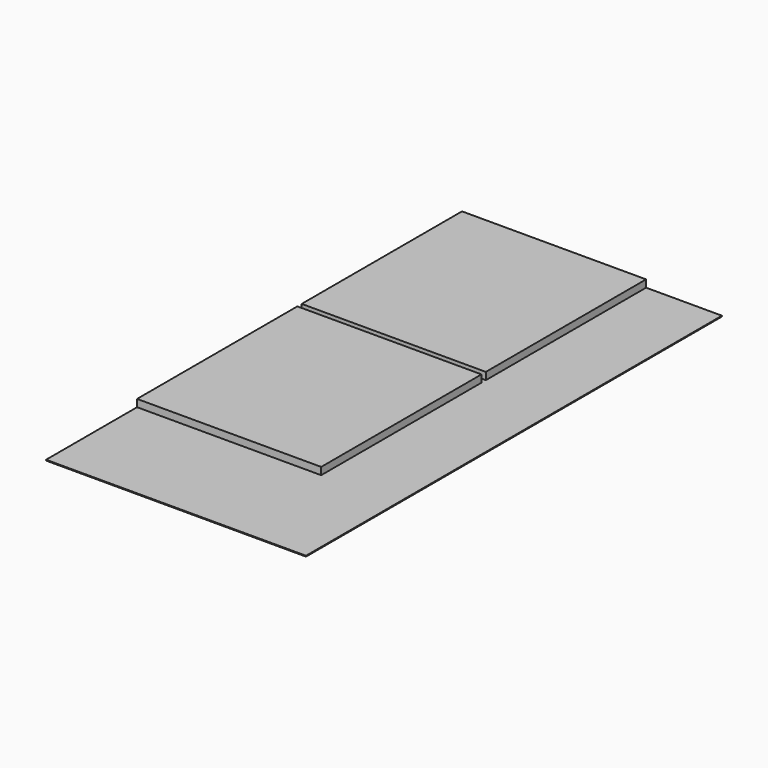
from build123d import *

# Parameters (mm, degrees)
F0_W     = 609.6
F0_H     = 1219.2
F1_DEPTH = 19.05
F3_DEPTH = 17.145


with BuildPart() as f1:
    # F0 (on Top) → F1 (new body)
    with BuildSketch(Plane.XY):
        Rectangle(F0_W, F0_H)
    extrude(amount=F1_DEPTH)

    # F2 (on face) → F3 (cut)
    with BuildSketch(Plane.XY.offset(19.05)):
        Polygon((304.8, 609.6), (127, 609.6), (127, 139.7), (-304.8, 139.7), (-304.8, 127), (127, 127), (127, -342.9), (-304.8, -342.9), (-304.8, -609.6), (304.8, -609.6), align=None)
    extrude(amount=-F3_DEPTH, mode=Mode.SUBTRACT)


solid = f1.part
